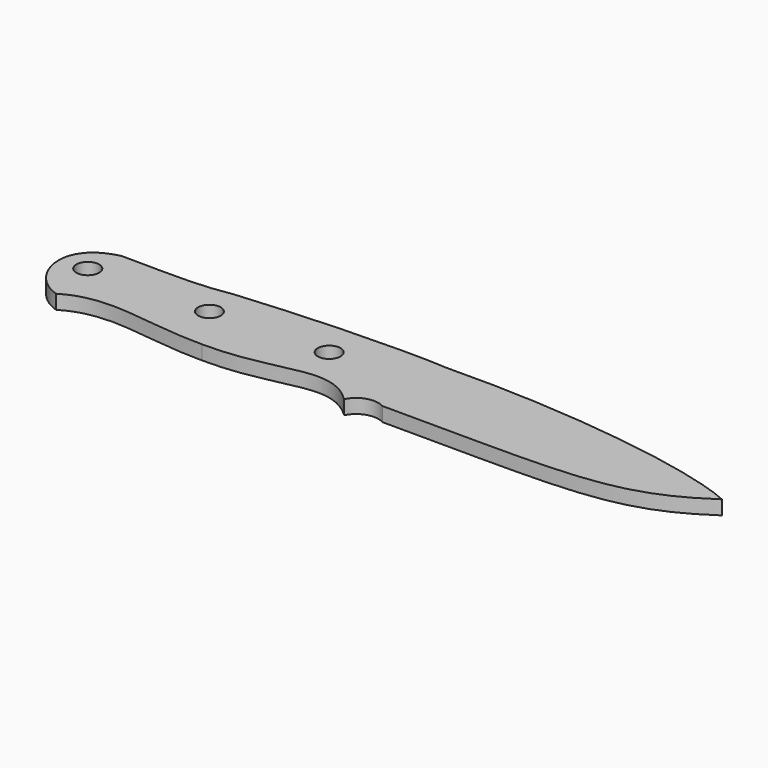
from build123d import *

# Parameters (mm, degrees)
F1_DEPTH = 3.96875
F2_D     = 6.35
F3_D     = 6.35


with BuildPart() as f1:
    # F0 (on Top) → F1 (new body)
    with BuildSketch(Plane.XY):
        with BuildLine():
            add(Edge.make_bspline(
                [(93.0961013775, 11.8631264067), (73.0208323512, -1.8265877953), (59.8314115865, 0), (7.6732839915, 0)],
                knots=[0, 0, 0, 0, 86.2426315595, 86.2426315595, 86.2426315595, 86.2426315595], degree=3))
            add(Edge.make_bspline(
                [(7.3635370912, 22.8609638917), (45.8569088961, 23.6332072416), (80.4890639518, 17.6334698365), (93.0961013775, 11.8631264067)],
                knots=[0, 0, 0, 0, 86.4350913023, 86.4350913023, 86.4350913023, 86.4350913023], degree=3))
            add(Edge.make_bspline(
                [(-50.7329378175, 20.9600568183), (-28.6348905119, 23.0391732855), (-2.4380154521, 23.6332072416), (7.3635370912, 22.8609638917)],
                knots=[0, 0, 0, 0, 58.1275652726, 58.1275652726, 58.1275652726, 58.1275652726], degree=3))
            add(Edge.make_bspline(
                [(-81.150870805, 19.8313930948), (-72.6527741432, 19.950199886), (-60.8315071405, 19.059149745), (-50.7329378175, 20.9600568183)],
                knots=[0, 0, 0, 0, 30.4388654361, 30.4388654361, 30.4388654361, 30.4388654361], degree=3))
            add(Edge.make_bspline(
                [(-81.150870805, -3.0372931352), (-91.1866208845, 0), (-96.1764965988, 16.4454019242), (-81.150870805, 19.8313930948)],
                knots=[0, 0, 0, 0, 22.8686862301, 22.8686862301, 22.8686862301, 22.8686862301], degree=3))
            add(Edge.make_bspline(
                [(-41.2958105253, -1.8235209079), (-58.2979012822, -1.90700734), (-70.3425093809, 3.5678162715), (-81.150870805, -3.0372931352)],
                knots=[0, 0, 0, 0, 39.8735385051, 39.8735385051, 39.8735385051, 39.8735385051], degree=3))
            add(Edge.make_bspline(
                [(-0.9071079771, -2.6666779982), (-11.7089183609, 7.7004259843), (-20.3979939932, -2.0482919491), (-41.2958105253, -1.8235209079)],
                knots=[0, 0, 0, 0, 40.3975024897, 40.3975024897, 40.3975024897, 40.3975024897], degree=3))
            ThreePointArc((-0.9071079771, -2.6666779982), (2.8162542913, 0.4905240496), (7.6732839915, 0))
        make_face()
    extrude(amount=F1_DEPTH)

    # F2 (through all)
    with Locations(Plane(origin=(0, 0, 0), x_dir=(1, 0, 0), z_dir=(0, 0, -1))):
        with Locations((-49.7787126682, -11.3269922778)):
            Hole(F2_D / 2)

    # F3 (through all)
    with Locations(Plane(origin=(0, 0, 0), x_dir=(1, 0, 0), z_dir=(0, 0, -1))):
        with Locations((-83.2072975638, -10.5645472046), (-17.3172454044, -12.5823580943)):
            Hole(F3_D / 2)


solid = f1.part
